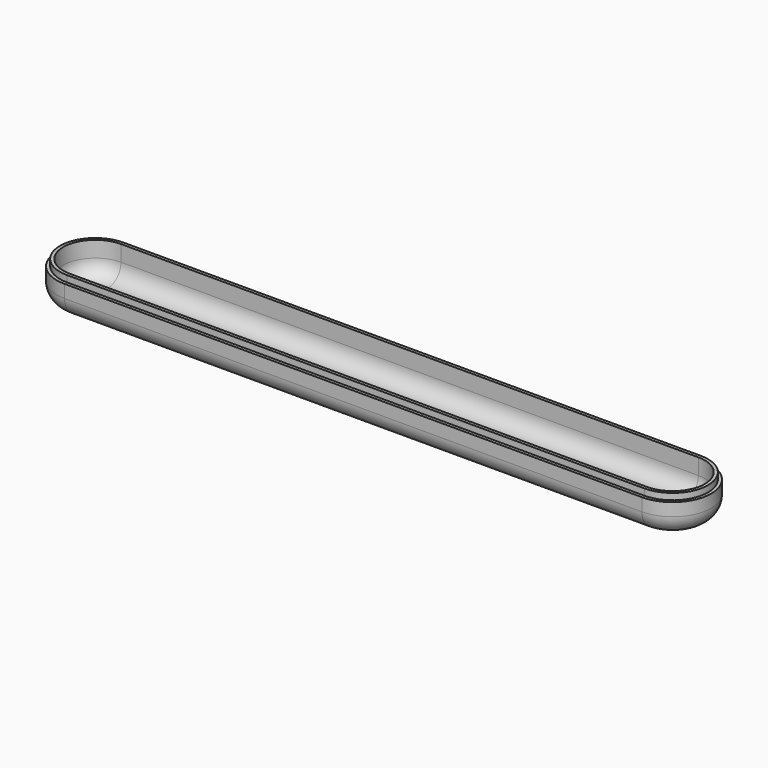
from build123d import *

# Parameters (mm, degrees)
PAD_DEPTH       = 12
POCKET_DEPTH    = 10
FILLET_R        = 5
FILLET001_R     = 6
SKETCH002_W     = 211.472893
SKETCH002_H     = 45.806395
POCKET001_DEPTH = 2
SKETCH003_R     = 5
POCKET002_DEPTH = 2.001


with BuildPart() as part:
    # Sketch → Pad (new body)
    with BuildSketch(Plane.XY):
        with BuildLine():
            Line((-90, 12), (89.999964, 12))
            ThreePointArc((90, -12), (102, 1.8e-05), (89.999964, 12))
            Line((-90, -12), (90, -12))
            ThreePointArc((-90, 12), (-102, 0), (-90, -12))
        make_face()
    extrude(amount=PAD_DEPTH)

    # Sketch001 (on Face6 of Pad) → Pocket (cut)
    with BuildSketch(Plane.XY.offset(12)):
        with BuildLine():
            Line((-90, 10), (90, 10))
            ThreePointArc((90, -10), (100, 0), (90, 10))
            Line((-90, -10), (90, -10))
            ThreePointArc((-90, 10), (-100, 0), (-90, -10))
        make_face()
    extrude(amount=-POCKET_DEPTH, mode=Mode.SUBTRACT)

    # Fillet
    fillet_edges = [part.edges().sort_by_distance(p)[0] for p in [
        (0, 10, 2),
    ]]
    fillet(fillet_edges, radius=FILLET_R)

    # Fillet001
    fillet001_edges = [part.edges().sort_by_distance(p)[0] for p in [
        (0, -12, 0),
    ]]
    fillet(fillet001_edges, radius=FILLET001_R)

    # Sketch002 (on Face4 of Fillet001) → Pocket001 (cut)
    with BuildSketch(Plane.XY.offset(12)):
        with Locations((-0.18729, 1.421787)):
            Rectangle(SKETCH002_W, SKETCH002_H)
        with BuildLine():
            Line((-90, 11), (90, 11))
            ThreePointArc((90, -11), (101, 0), (90, 11))
            Line((-90, -11), (90, -11))
            ThreePointArc((-90, 11), (-101, 0), (-90, -11))
        make_face(mode=Mode.SUBTRACT)
    extrude(amount=-POCKET001_DEPTH, mode=Mode.SUBTRACT)

    # Sketch003 (on Face24 of Pocket001) → Pocket002 (cut, through all)
    with BuildSketch(Plane.XY.offset(2)):
        with Locations((-8, 0)):
            Circle(SKETCH003_R)
        with Locations((-24, 0)):
            Circle(SKETCH003_R)
        with Locations((-40, 0)):
            Circle(SKETCH003_R)
        with Locations((-56, 0)):
            Circle(SKETCH003_R)
        with Locations((-72, 0)):
            Circle(SKETCH003_R)
        with Locations((8, 0)):
            Circle(SKETCH003_R)
        with Locations((24, 0)):
            Circle(SKETCH003_R)
        with Locations((40, 0)):
            Circle(SKETCH003_R)
        with Locations((56, 0)):
            Circle(SKETCH003_R)
        with Locations((72, 0)):
            Circle(SKETCH003_R)
    extrude(amount=-POCKET002_DEPTH, mode=Mode.SUBTRACT)


solid = part.part
